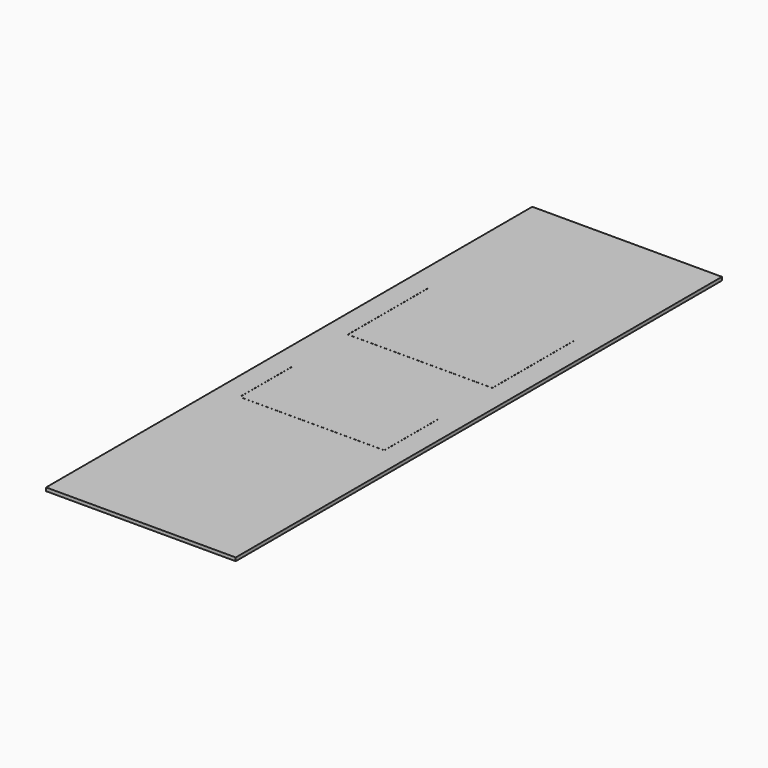
from build123d import *

# Parameters (mm, degrees)
F1_DEPTH = 3


with BuildPart() as f1:
    # F0 (on Top) → F1 (new body)
    with BuildSketch(Plane.XY):
        Polygon((-67.946185, 250), (-67.946185, -250), (100.553815, -250), (100.553815, 250), (100.553815, 290), (-67.946185, 290), align=None)
        Polygon((-47.946185, -59.9), (-47.946185, 0), (-47.846185, 0), (-47.846185, -59.9), (80.453815, -59.9), (80.453815, 0), (80.553815, 0), (80.553815, -59.9), (80.553815, -60), (80.453815, -60), (-47.846185, -60), (-47.946185, -60), align=None, mode=Mode.SUBTRACT)
        Polygon((-47.946185, 60.1), (-47.946185, 150), (-47.846185, 150), (-47.846185, 60.1), (80.453815, 60.1), (80.453815, 150), (80.553815, 150), (80.553815, 60.1), (80.553815, 60), (80.453815, 60), (-47.846185, 60), (-47.946185, 60), align=None, mode=Mode.SUBTRACT)
    extrude(amount=F1_DEPTH)


solid = f1.part
